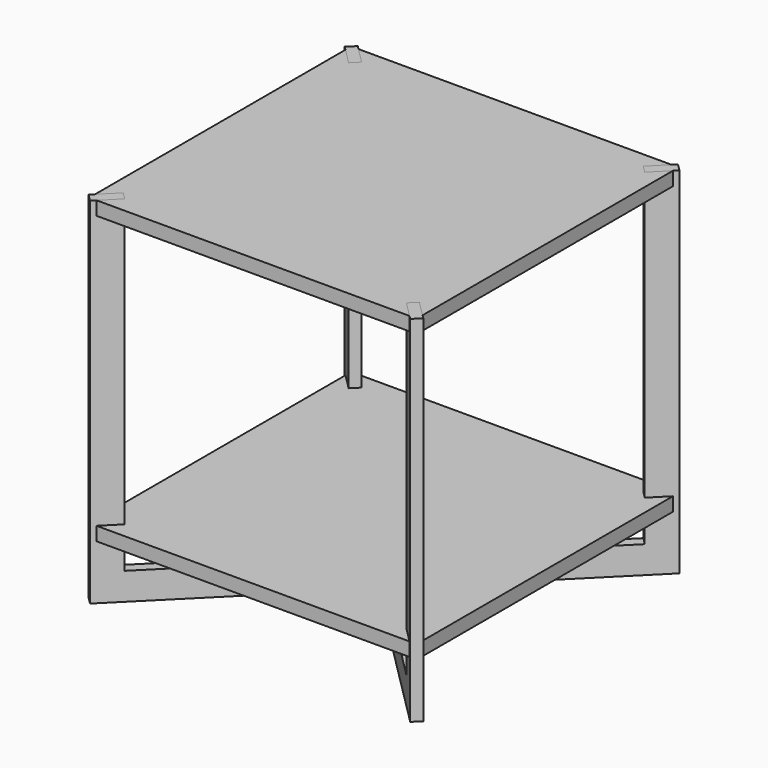
from build123d import *

# Parameters (mm, degrees)
F4_DEPTH  = 660.4
F5_W      = 19.05
F5_H      = 50.8
F6_DEPTH  = 380.238
F9_COUNT  = 4
F9_ANGLE  = 270
F12_DEPTH = 25.4


with BuildPart() as f4:
    # F3 (on face) → F4 (new body)
    with BuildSketch(Plane.XY.offset(660.4)):
        Polygon((6.7351920908, 616.3351920908), (0, 609.6), (-6.7351920908, 602.8648079092), (29.1858323935, 566.9437834249), (42.6562165751, 580.4141676065), align=None)
    extrude(amount=-F4_DEPTH)

    # F5 (on face) → F6 (join)
    with BuildSketch(Plane(origin=(-268.8789755157, 268.8789755157, 0), x_dir=(0.7071067812, 0.7071067812, 0), z_dir=(0.7071067812, -0.7071067812, 0))):
        with Locations((431.0522938113, 25.4)):
            Rectangle(F5_W, F5_H)
    extrude(amount=F6_DEPTH)


with BuildPart() as f9_1:
    # F9: instance of F4
    add(f4.part.rotate(Axis((304.8, 304.8, 403.2057374716), (0, 0, -1)), 1 * F9_ANGLE / (F9_COUNT - 1)))


with BuildPart() as f9_2:
    # F9: instance of F4
    add(f4.part.rotate(Axis((304.8, 304.8, 403.2057374716), (0, 0, -1)), 2 * F9_ANGLE / (F9_COUNT - 1)))


with BuildPart() as f9_3:
    # F9: instance of F4
    add(f4.part.rotate(Axis((304.8, 304.8, 403.2057374716), (0, 0, -1)), 3 * F9_ANGLE / (F9_COUNT - 1)))


with BuildPart() as f12:
    # F11 (on offset) → F12 (new body)
    with BuildSketch(Plane.XY.offset(101.6)):
        Polygon((42.6562165751, 29.1858323935), (13.4703841816, 0), (596.1296158184, 0), (566.9437834249, 29.1858323935), (580.4141676065, 42.6562165751), (609.6, 13.4703841816), (609.6, 596.1296158184), (580.4141676065, 566.9437834249), (566.9437834249, 580.4141676065), (596.1296158184, 609.6), (13.4703841816, 609.6), (42.6562165751, 580.4141676065), (29.1858323935, 566.9437834249), (0, 596.1296158184), (0, 13.4703841816), (29.1858323935, 42.6562165751), align=None)
    extrude(amount=F12_DEPTH)


with BuildPart() as f13_1:
    # F13: copy of F12
    add(f12.part.moved(Location((0, 0, 533.4))))


solid = Compound([f4.part, f9_1.part, f9_2.part, f9_3.part, f12.part, f13_1.part])
